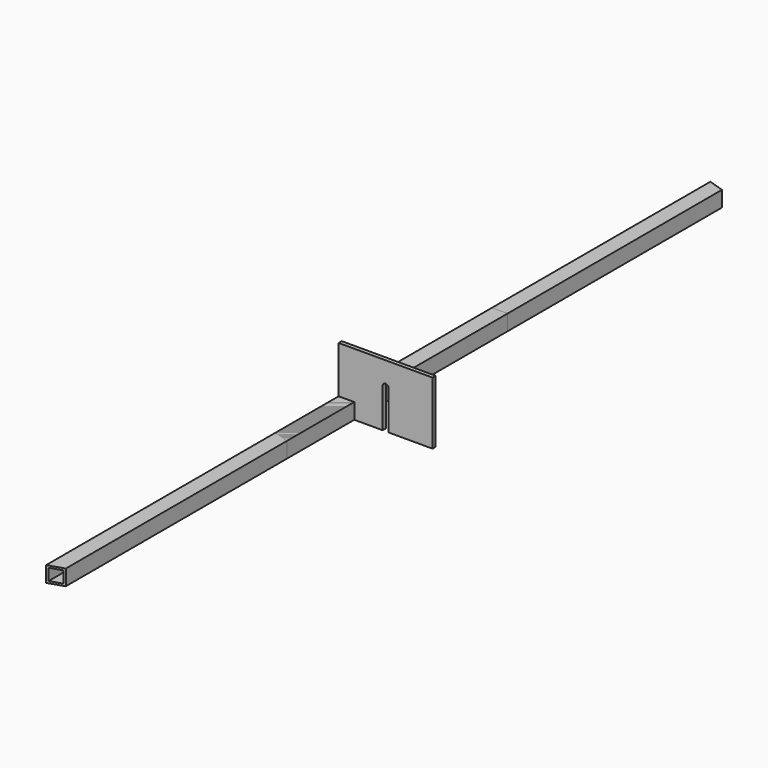
from build123d import *

# Parameters (mm, degrees)
F0_W      = 25.4
F0_H      = 25.4
F0_W_2    = 19.05
F0_H_2    = 19.05
F1_DEPTH  = 748.03
F3_DEPTH  = 25.4
F4_W      = 25.4
F4_H      = 25.4
F4_W_2    = 19.05
F4_H_2    = 19.05
F5_DEPTH  = 219.71
F7_DEPTH  = 25.4
F8_W      = 25.4
F8_H      = 25.4
F8_W_2    = 19.05
F8_H_2    = 19.05
F9_DEPTH  = 304.8
F10_W     = 25.4
F10_H     = 25.4
F10_W_2   = 19.05
F10_H_2   = 19.05
F11_DEPTH = 600.075
F13_DEPTH = 25.4
F14_W     = 25.4
F14_H     = 25.4
F14_W_2   = 19.05
F14_H_2   = 19.05
F15_DEPTH = 101.5796038
F17_DEPTH = 25.401
F18_W     = 25.4
F18_H     = 25.3999981404
F18_W_2   = 19.05
F18_H_2   = 19.0499981404
F19_DEPTH = 142.844393
F21_DEPTH = 25.4009981404
F23_DEPTH = 6.35


with BuildPart() as f1:
    # F0 (on Front) → F1 (new body)
    with BuildSketch(Plane.XZ):
        with Locations((12.7, 12.7)):
            Rectangle(F0_W, F0_H)
        with Locations((12.7, 12.7)):
            Rectangle(F0_W_2, F0_H_2, mode=Mode.SUBTRACT)
    extrude(amount=-F1_DEPTH)

    # F2 (on face) → F3 (cut, through all)
    with BuildSketch(Plane.XY.offset(25.4)):
        Polygon((0, 8.2529602843), (0, 0), (25.4, 0), align=None)
        Polygon((25.4, 739.7770397157), (25.4, 748.03), (0, 748.03), align=None)
    extrude(amount=-F3_DEPTH, mode=Mode.SUBTRACT)


with BuildPart() as f5:
    # F4 (on Front) → F5 (new body)
    with BuildSketch(Plane.XZ):
        with Locations((12.7, 12.7)):
            Rectangle(F4_W, F4_H)
        with Locations((12.7, 12.7)):
            Rectangle(F4_W_2, F4_H_2, mode=Mode.SUBTRACT)
    extrude(amount=F5_DEPTH)

    # F6 (on face) → F7 (cut, through all)
    with BuildSketch(Plane.XY.offset(25.4)):
        Polygon((25.4, -211.4570397157), (0, -219.71), (25.4, -219.71), align=None)
        Polygon((25.4, -8.2529602843), (25.4, 0), (0, 0), align=None)
    extrude(amount=-F7_DEPTH, mode=Mode.SUBTRACT)


with BuildPart() as f9:
    # F8 (on Front) → F9 (new body)
    with BuildSketch(Plane.XZ):
        with Locations((12.7, 12.7)):
            Rectangle(F8_W, F8_H)
        with Locations((12.7, 12.7)):
            Rectangle(F8_W_2, F8_H_2, mode=Mode.SUBTRACT)
    extrude(amount=-F9_DEPTH)


with BuildPart() as f11:
    # F10 (on Front) → F11 (new body)
    with BuildSketch(Plane.XZ):
        with Locations((12.7, 12.7)):
            Rectangle(F10_W, F10_H)
        with Locations((12.7, 12.7)):
            Rectangle(F10_W_2, F10_H_2, mode=Mode.SUBTRACT)
    extrude(amount=F11_DEPTH)

    # F12 (on face) → F13 (cut, through all)
    with BuildSketch(Plane.XY.offset(25.4)):
        Polygon((25.4, 0), (0, 0), (25.4, -8.2529602843), align=None)
        Polygon((25.4, -591.8220397157), (0, -600.075), (25.4, -600.075), align=None)
    extrude(amount=-F13_DEPTH, mode=Mode.SUBTRACT)


with BuildPart() as f15:
    # F14 (on Front) → F15 (new body)
    with BuildSketch(Plane.XZ):
        with Locations((12.7, 12.7)):
            Rectangle(F14_W, F14_H)
        with Locations((12.7, 12.7)):
            Rectangle(F14_W_2, F14_H_2, mode=Mode.SUBTRACT)
    extrude(amount=F15_DEPTH)

    # F16 (on face) → F17 (cut, through all)
    with BuildSketch(Plane.XY.offset(25.4)):
        Polygon((0, -101.5796038), (25.4, -101.5796038), (0, -93.3266435157), align=None)
    extrude(amount=-F17_DEPTH, mode=Mode.SUBTRACT)


with BuildPart() as f19:
    # F18 (on Front) → F19 (new body)
    with BuildSketch(Plane.XZ):
        with Locations((12.7, 12.6999990702)):
            Rectangle(F18_W, F18_H)
        with Locations((12.7, 12.6999990702)):
            Rectangle(F18_W_2, F18_H_2, mode=Mode.SUBTRACT)
    extrude(amount=F19_DEPTH)

    # F20 (on face) → F21 (cut, through all)
    with BuildSketch(Plane.XY.offset(25.3999981404)):
        Polygon((0, -142.844393), (25.4, -142.844393), (0, -134.5914327157), align=None)
    extrude(amount=-F21_DEPTH, mode=Mode.SUBTRACT)


with BuildPart() as f23:
    # F22 (on Front) → F23 (new body)
    with BuildSketch(Plane.XZ):
        with BuildLine():
            Line((0, 101.6), (0, 0))
            Line((0, 0), (71.4375, 0))
            Line((71.4375, 0), (71.4375, 63.5))
            ThreePointArc((71.4375, 63.5), (76.2, 68.2625), (80.9625, 63.5))
            Line((80.9625, 63.5), (80.9625, 0))
            Line((80.9625, 0), (152.4, 0))
            Line((152.4, 0), (152.4, 101.6))
            Line((152.4, 101.6), (0, 101.6))
        make_face()
    extrude(amount=F23_DEPTH)


solid = Compound([f1.part, f5.part, f9.part, f11.part, f15.part, f19.part, f23.part])
